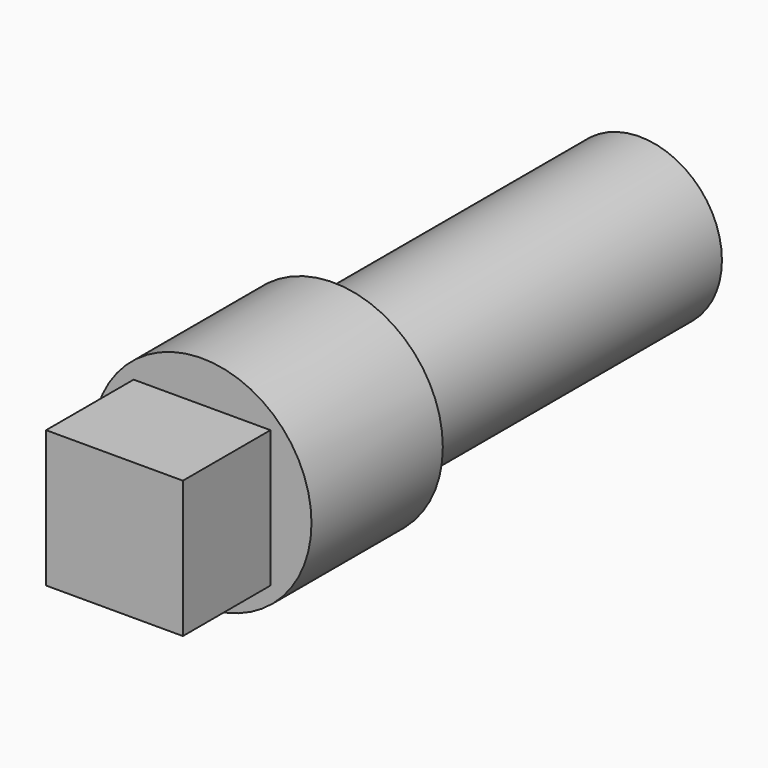
from build123d import *

# Parameters (mm, degrees)
F0_R     = 1.5
F1_DEPTH = 7
F2_R     = 2
F3_DEPTH = 3
F4_W     = 2.5
F4_H     = 2.5
F5_DEPTH = 2


with BuildPart() as f1:
    # F0 (on Front) → F1 (new body)
    with BuildSketch(Plane.XZ):
        Circle(F0_R)
    extrude(amount=F1_DEPTH)

    # F2 (on face) → F3 (join)
    with BuildSketch(Plane.XZ.offset(7)):
        Circle(F2_R)
    extrude(amount=F3_DEPTH)

    # F4 (on face) → F5 (join)
    with BuildSketch(Plane.XZ.offset(10)):
        Rectangle(F4_W, F4_H)
    extrude(amount=F5_DEPTH)


solid = f1.part
